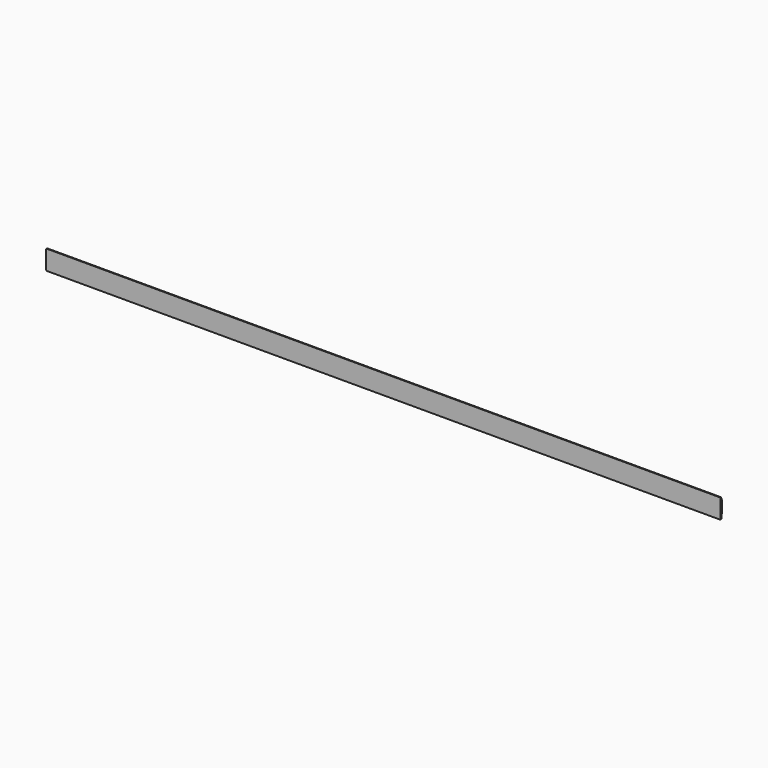
from build123d import *

# Parameters (mm, degrees)
F0_W     = 1380
F0_H     = 40
F1_DEPTH = 3
F2_W     = 1380
F2_H     = 5
F2_H_2   = 10
F3_DEPTH = 1.5
F4_R     = 2


with BuildPart() as f1:
    # F0 (on Front) → F1 (new body)
    with BuildSketch(Plane.XZ):
        Rectangle(F0_W, F0_H)
    extrude(amount=F1_DEPTH)

    # F2 (on face) → F3 (cut)
    with BuildSketch(Plane(origin=(0, 0, 0), x_dir=(-1, 0, 0), z_dir=(0, 1, 0))):
        with Locations((0, 17.5)):
            Rectangle(F2_W, F2_H)
        with Locations((0, -15)):
            Rectangle(F2_W, F2_H_2)
    extrude(amount=-F3_DEPTH, mode=Mode.SUBTRACT)

    # F4
    f4_edges = [f1.edges().sort_by_distance(p)[0] for p in [
        (690, -2.25, 20),
        (690, -2.25, -20),
        (-690, -2.25, 20),
        (-690, -2.25, -20),
    ]]
    fillet(f4_edges, radius=F4_R)


solid = f1.part
